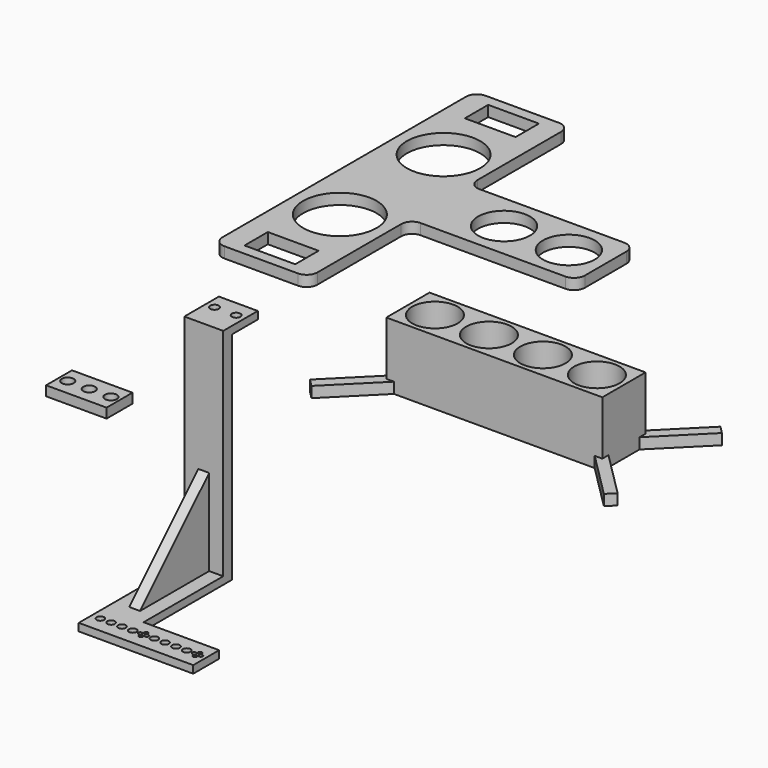
from build123d import *

# Parameters (mm, degrees)
F0_W      = 23.5
F0_H      = 13.5
F0_R      = 17
F0_R_2    = 12
F1_DEPTH  = 5
F2_R      = 5
F5_DEPTH  = 53
F6_R      = 2
F7_DEPTH  = 3.5
F8_W      = 35
F8_H      = 66.1
F9_DEPTH  = 103.501
F10_R     = 1.75
F10_R_2   = 0.9
F11_DEPTH = 3.5
F14_DEPTH = 2.5
F16_W     = 100
F16_H     = 25
F16_R     = 10.5
F17_DEPTH = 25
F19_DEPTH = 5
F21_W     = 28
F21_H     = 15
F21_R     = 2.75
F22_DEPTH = 4.5


with BuildPart() as f1:
    # F0 (on Top) → F1 (new body)
    with BuildSketch(Plane.XY):
        Polygon((-22, 75.5), (-22, 0), (-22, -75.5), (22, -75.5), (22, -17), (99, -17), (99, 0), (99, 17), (22, 17), (22, 75.5), align=None)
        with Locations((0, -63.75)):
            Rectangle(F0_W, F0_H, mode=Mode.SUBTRACT)
        with Locations((0, -30)):
            Circle(F0_R, mode=Mode.SUBTRACT)
        with Locations((0, 30)):
            Circle(F0_R, mode=Mode.SUBTRACT)
        with Locations((0, 63.75)):
            Rectangle(F0_W, F0_H, mode=Mode.SUBTRACT)
        with Locations((52, 0)):
            Circle(F0_R_2, mode=Mode.SUBTRACT)
        with Locations((82, 0)):
            Circle(F0_R_2, mode=Mode.SUBTRACT)
    extrude(amount=F1_DEPTH)

    # F2
    f2_edges = [f1.edges().sort_by_distance(p)[0] for p in [
        (22, 17, 2.5),
        (22, -17, 2.5),
        (99, -17, 2.5),
        (99, 17, 2.5),
        (22, 75.5, 2.5),
        (-22, 75.5, 2.5),
        (-22, -75.5, 2.5),
        (22, -75.5, 2.5),
    ]]
    fillet(f2_edges, radius=F2_R)


with BuildPart() as f1_1:
    # F3: moved
    add(f1.part.moved(Location((0, 200, 0))))


with BuildPart() as f5:
    # F4 (on Right) → F5 (new body)
    with BuildSketch(Plane.YZ):
        Polygon((-15, -100), (-15, -3.5), (0, -3.5), (0, 0), (-20, 0), (-20, -3.5), (-20, -100), (-81.1, -100), (-81.1, -103.5), (-20, -103.5), (-15, -103.5), align=None)
    extrude(amount=F5_DEPTH)

    # F6 (on face) → F7 (cut, through all)
    with BuildSketch(Plane.XY):
        with Locations((4, -7.5)):
            Circle(F6_R)
        with Locations((14, -7.5)):
            Circle(F6_R)
    extrude(amount=-F7_DEPTH, mode=Mode.SUBTRACT)

    # F8 (on face) → F9 (cut, through all)
    with BuildSketch(Plane.XY):
        with Locations((35.5, -33.05)):
            Rectangle(F8_W, F8_H)
    extrude(amount=-F9_DEPTH, mode=Mode.SUBTRACT)

    # F10 (on face) → F11 (cut, through all)
    with BuildSketch(Plane.XY.offset(-100)):
        with Locations((4, -73.6)):
            Circle(F10_R)
        with Locations((9, -73.6)):
            Circle(F10_R)
        with Locations((14, -73.6)):
            Circle(F10_R)
        with Locations((24, -75.1)):
            Circle(F10_R_2)
        with Locations((25.5, -73.6)):
            Circle(F10_R_2)
        with Locations((24, -72.1)):
            Circle(F10_R_2)
        with Locations((22.5, -73.6)):
            Circle(F10_R_2)
        with Locations((19, -73.6)):
            Circle(F10_R)
        with Locations((39, -73.6)):
            Circle(F10_R)
        with Locations((34, -73.6)):
            Circle(F10_R)
        with Locations((29, -73.6)):
            Circle(F10_R)
        with Locations((44, -73.6)):
            Circle(F10_R)
        with Locations((47.5, -73.6)):
            Circle(F10_R_2)
        with Locations((49, -72.1)):
            Circle(F10_R_2)
        with Locations((50.5, -73.6)):
            Circle(F10_R_2)
        with Locations((49, -75.1)):
            Circle(F10_R_2)
    extrude(amount=-F11_DEPTH, mode=Mode.SUBTRACT)

    # F13 (on offset) → F14 (join, symmetric)
    with BuildSketch(Plane.YZ.offset(9)):
        Polygon((-60, -100), (-20, -100), (-20, -60), align=None)
    extrude(amount=F14_DEPTH, both=True)


with BuildPart() as f5_1:
    # F15: moved
    add(f5.part.moved(Location((0, 100, 0))))


with BuildPart() as f17:
    # F16 (on Top) → F17 (new body)
    with BuildSketch(Plane.XY):
        with Locations((37.5, 0)):
            Rectangle(F16_W, F16_H)
        Circle(F16_R, mode=Mode.SUBTRACT)
        with Locations((25, 0)):
            Circle(F16_R, mode=Mode.SUBTRACT)
        with Locations((50, 0)):
            Circle(F16_R, mode=Mode.SUBTRACT)
        with Locations((75, 0)):
            Circle(F16_R, mode=Mode.SUBTRACT)
    extrude(amount=F17_DEPTH)

    # F18 (on face) → F19 (join)
    with BuildSketch(Plane(origin=(0, 0, 0), x_dir=(1, 0, 0), z_dir=(0, 0, -1))):
        Polygon((-12.5, 8.9644660941), (-12.5, 0), (-12.5, -8.9644660941), (-33.7132034356, -30.1776695297), (-30.1776695297, -33.7132034356), (-8.9644660941, -12.5), (37.5, -12.5), (83.9644660941, -12.5), (105.1776695297, -33.7132034356), (108.7132034356, -30.1776695297), (87.5, -8.9644660941), (87.5, 0), (87.5, 8.9644660941), (108.7132034356, 30.1776695297), (105.1776695297, 33.7132034356), (83.9644660941, 12.5), (37.5, 12.5), (-8.9644660941, 12.5), (-30.1776695297, 33.7132034356), (-33.7132034356, 30.1776695297), align=None)
    extrude(amount=F19_DEPTH)


with BuildPart() as f17_1:
    # F20: moved
    add(f17.part.moved(Location((100, 100, 0))))


with BuildPart() as f22:
    # F21 (on Top) → F22 (new body)
    with BuildSketch(Plane.XY):
        with Locations((14, 7.5)):
            Rectangle(F21_W, F21_H)
        with Locations((4, 7.5)):
            Circle(F21_R, mode=Mode.SUBTRACT)
        with Locations((14, 7.5)):
            Circle(F21_R, mode=Mode.SUBTRACT)
        with Locations((24, 7.5)):
            Circle(F21_R, mode=Mode.SUBTRACT)
    extrude(amount=F22_DEPTH)


solid = Compound([f1_1.part, f5_1.part, f17_1.part, f22.part])
